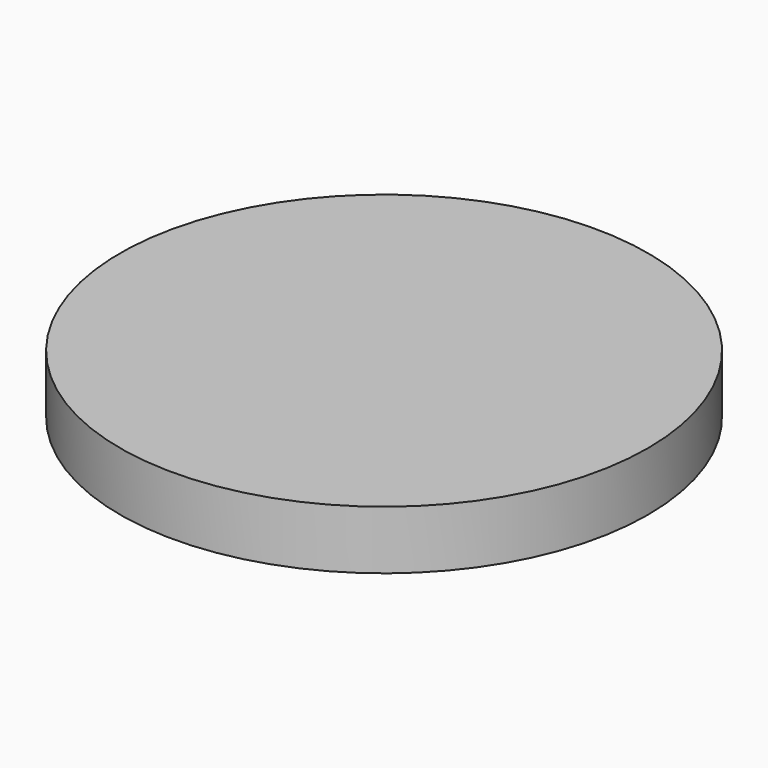
from build123d import *

# Parameters (mm, degrees)
F0_R      = 13.5
F1_DEPTH  = 3
F2_R      = 5
F2_R_2    = 3.85
F3_DEPTH  = 1.3
F3_FACE_R = 3.85
F4_DEPTH  = 3.3


with BuildPart() as f1:
    # F0 (on Top) → F1 (new body)
    with BuildSketch(Plane.XY):
        Circle(F0_R)
    extrude(amount=F1_DEPTH)

    # F2 (on Top) → F3 (join)
    with BuildSketch(Plane.XY):
        Circle(F2_R)
        Circle(F2_R_2, mode=Mode.SUBTRACT)
    extrude(amount=-F3_DEPTH)

    # F3_face (on face) → F4 (join)
    with BuildSketch(Plane(origin=(0, 0, 0), x_dir=(1, 0, 0), z_dir=(0, 0, -1))):
        Circle(F3_FACE_R)
    extrude(amount=F4_DEPTH)


solid = f1.part
